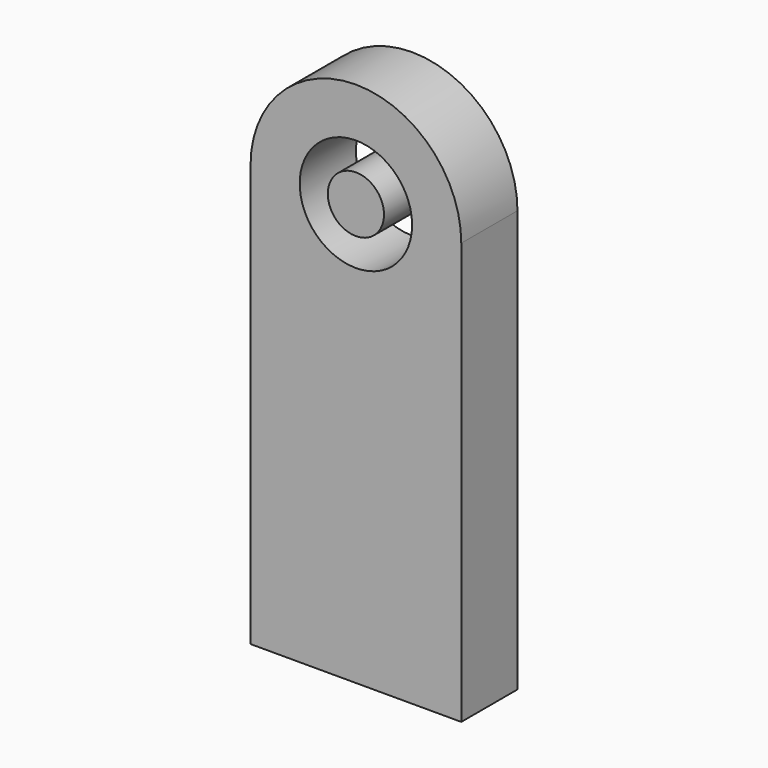
from build123d import *

# Parameters (mm, degrees)
F0_R     = 101.6
F0_R_2   = 50.8
F1_DEPTH = 127


with BuildPart() as f1:
    # F0 (on Front) → F1 (new body)
    with BuildSketch(Plane.XZ):
        with BuildLine():
            Line((0, 762), (0, 0))
            Line((0, 0), (381, 0))
            Line((381, 0), (381, 762))
            ThreePointArc((381, 762), (190.5, 952.5), (0, 762))
        make_face()
        with Locations((190.5, 762)):
            Circle(F0_R, mode=Mode.SUBTRACT)
        with Locations((190.5, 762)):
            Circle(F0_R_2)
    extrude(amount=F1_DEPTH)


solid = f1.part
